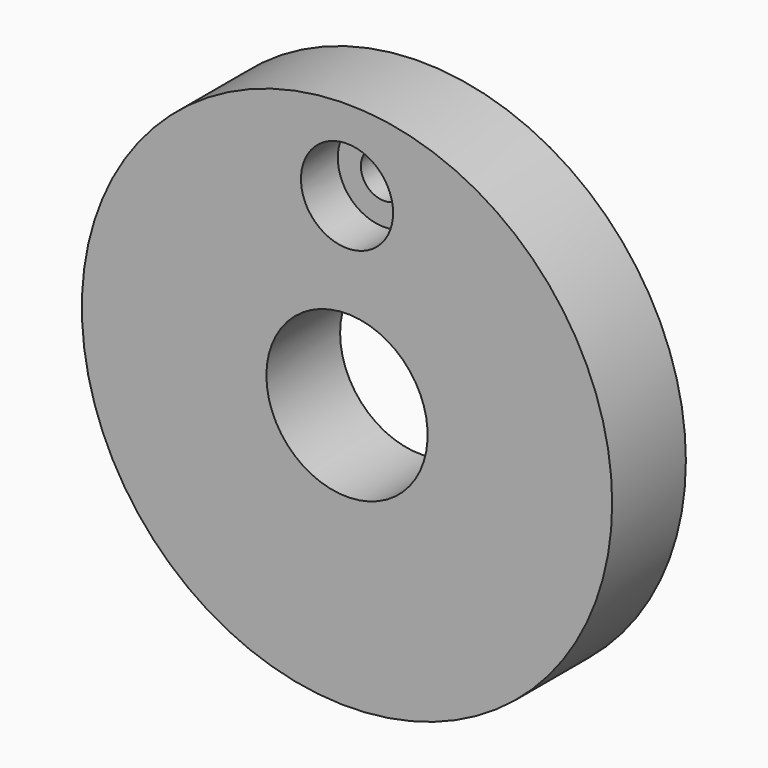
from build123d import *

# Parameters (mm, degrees)
F0_R      = 73.096751
F1_DEPTH  = 25.4
F2_R      = 6.35
F3_DEPTH  = 25.4
F4_R      = 14.2875
F4_R_2    = 6.35
F5_DEPTH  = 9.525
F6_R      = 9.525
F7_DEPTH  = 9.525
F8_R      = 22.225
F9_DEPTH  = 25.4
F10_R     = 12.7
F11_DEPTH = 12.7


with BuildPart() as f1:
    # F0 (on Front) → F1 (new body)
    with BuildSketch(Plane.XZ):
        Circle(F0_R)
    extrude(amount=F1_DEPTH)

    # F2 (on face) → F3 (cut)
    with BuildSketch(Plane(origin=(0, 0, 0), x_dir=(-1, 0, 0), z_dir=(0, 1, 0))):
        with Locations((0, 50.8)):
            Circle(F2_R)
    extrude(amount=-F3_DEPTH, mode=Mode.SUBTRACT)

    # F4 (on face) → F5 (join)
    with BuildSketch(Plane(origin=(0, 0, 0), x_dir=(-1, 0, 0), z_dir=(0, 1, 0))):
        with Locations((0, 50.8)):
            Circle(F4_R)
        with Locations((0, 50.8)):
            Circle(F4_R_2, mode=Mode.SUBTRACT)
    extrude(amount=F5_DEPTH)

    # F6 (on face) → F7 (cut)
    with BuildSketch(Plane(origin=(0, 9.525, 0), x_dir=(-1, 0, 0), z_dir=(0, 1, 0))):
        with Locations((0, 50.8)):
            Circle(F6_R)
    extrude(amount=-F7_DEPTH, mode=Mode.SUBTRACT)

    # F8 (on face) → F9 (cut)
    with BuildSketch(Plane(origin=(0, 0, 0), x_dir=(-1, 0, 0), z_dir=(0, 1, 0))):
        Circle(F8_R)
    extrude(amount=-F9_DEPTH, mode=Mode.SUBTRACT)

    # F10 (on face) → F11 (cut)
    with BuildSketch(Plane.XZ.offset(25.4)):
        with Locations((0, 50.8)):
            Circle(F10_R)
    extrude(amount=-F11_DEPTH, mode=Mode.SUBTRACT)


solid = f1.part
